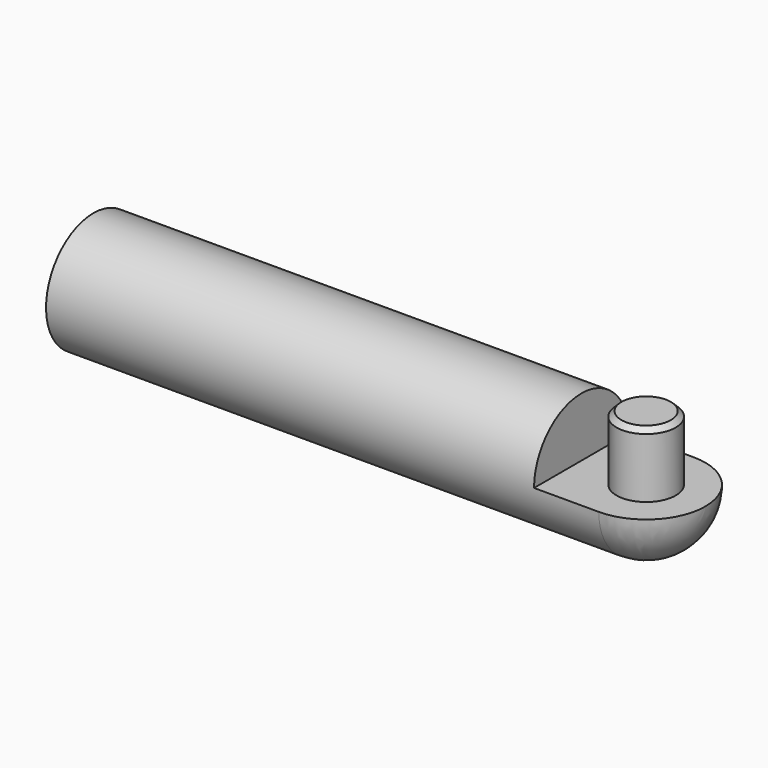
from build123d import *

# Parameters (mm, degrees)
F3_DEPTH = 25.4
F4_R     = 9.525
F5_DEPTH = 20.828
F6_SIZE  = 1.5875


with BuildPart() as f1:
    # F0 (on Front) → F1 (revolve)
    with BuildSketch(Plane.XZ):
        with BuildLine():
            Line((-98.425, 19.05), (-98.425, 0))
            Line((-98.425, 0), (98.425, 0))
            ThreePointArc((98.425, 0), (92.845384, 13.470384), (79.375, 19.05))
            Line((79.375, 19.05), (-98.425, 19.05))
        make_face()
    revolve(axis=Axis((0, 0, 0), (1, 0, 0)))

    # F2 (on Top) → F3 (cut)
    with BuildSketch(Plane.XY):
        with BuildLine():
            Line((79.375, 19.05), (58.547, 19.05))
            Line((58.547, 19.05), (58.547, -19.05))
            Line((58.547, -19.05), (79.375, -19.05))
            ThreePointArc((79.375, -19.05), (98.425, 0), (79.375, 19.05))
        make_face()
    extrude(amount=F3_DEPTH, mode=Mode.SUBTRACT)

    # F4 (on face) → F5 (join)
    with BuildSketch(Plane.XY):
        with Locations((79.375, 0)):
            Circle(F4_R)
    extrude(amount=F5_DEPTH)

    # F6
    f6_edges = [f1.edges().sort_by_distance(p)[0] for p in [
        (69.85, 0, 20.828),
    ]]
    chamfer(f6_edges, length=F6_SIZE)


solid = f1.part
